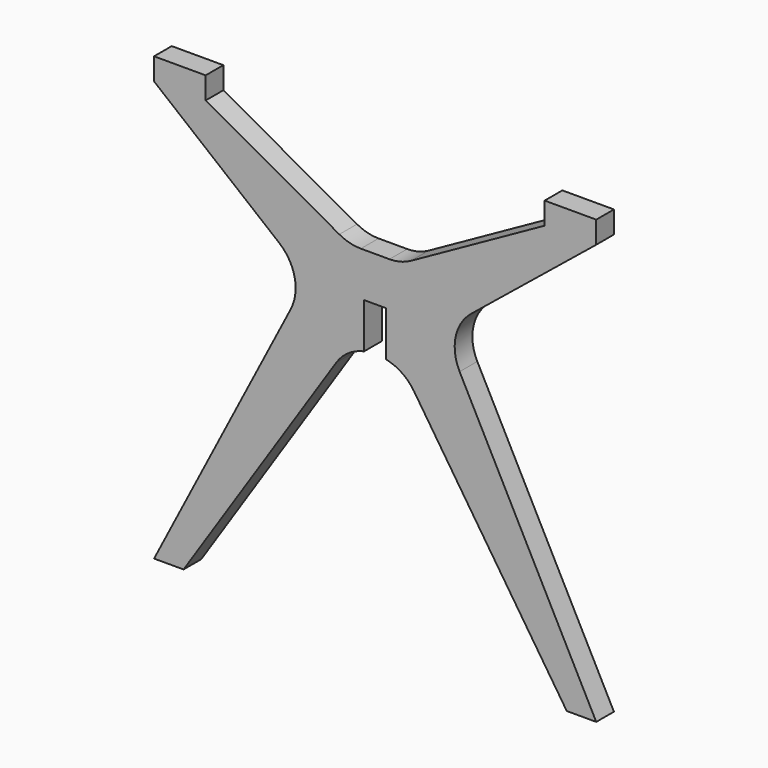
from build123d import *

# Parameters (mm, degrees)
F1_DEPTH = 19.05
F2_R     = 76.2
F3_W     = 88.9
F3_H     = 38.1
F4_DEPTH = 38.1
F6_DEPTH = 38.101


with BuildPart() as f1:
    # F0 (on Front) → F1 (new body, symmetric)
    with BuildSketch(Plane.XZ):
        Polygon((-44.45, 0), (-19.05, 0), (19.05, 0), (44.45, 0), (330.2, -433.689813), (381, -433.689813), (117.024645, 76.2), (381, 290.210187), (292.1, 290.210187), (44.45, 152.4), (0, 152.4), (-44.45, 152.4), (-292.1, 290.210187), (-381, 290.210187), (-117.024645, 76.2), (-381, -433.689813), (-330.2, -433.689813), align=None)
    extrude(amount=F1_DEPTH, both=True)

    # F2
    f2_edges = [f1.edges().sort_by_distance(p)[0] for p in [
        (117.024645, 0, 76.2),
        (-44.45, 0, 152.4),
        (44.45, 0, 152.4),
        (-117.024645, 0, 76.2),
        (-44.45, 0, 0),
        (44.45, 0, 0),
    ]]
    fillet(f2_edges, radius=F2_R)

    # F3 (on face) → F4 (join)
    with BuildSketch(Plane.XY.offset(290.210187)):
        with Locations((-336.55, 0)):
            Rectangle(F3_W, F3_H)
        with Locations((336.55, 0)):
            Rectangle(F3_W, F3_H)
    extrude(amount=F4_DEPTH)

    # F5 (on face) → F6 (cut, through all)
    with BuildSketch(Plane.XZ.offset(19.05)):
        with BuildLine():
            Line((-19.05, 76.2), (-19.05, -1.623687))
            ThreePointArc((-19.05, -1.623687), (-11.268752, -0.407009), (-3.403482, 0))
            Line((-3.403482, 0), (3.403482, 0))
            ThreePointArc((3.403482, 0), (11.268752, -0.407009), (19.05, -1.623687))
            Line((19.05, -1.623687), (19.05, 76.2))
            Line((19.05, 76.2), (-19.05, 76.2))
        make_face()
        with BuildLine():
            Line((-19.05, -1.623687), (-19.05, -12.7))
            Line((-19.05, -12.7), (19.05, -12.7))
            Line((19.05, -12.7), (19.05, -1.623687))
            ThreePointArc((19.05, -1.623687), (11.268752, -0.407009), (3.403482, 0))
            Line((3.403482, 0), (-3.403482, 0))
            ThreePointArc((-3.403482, 0), (-11.268752, -0.407009), (-19.05, -1.623687))
        make_face()
    extrude(amount=-F6_DEPTH, mode=Mode.SUBTRACT)


solid = f1.part
